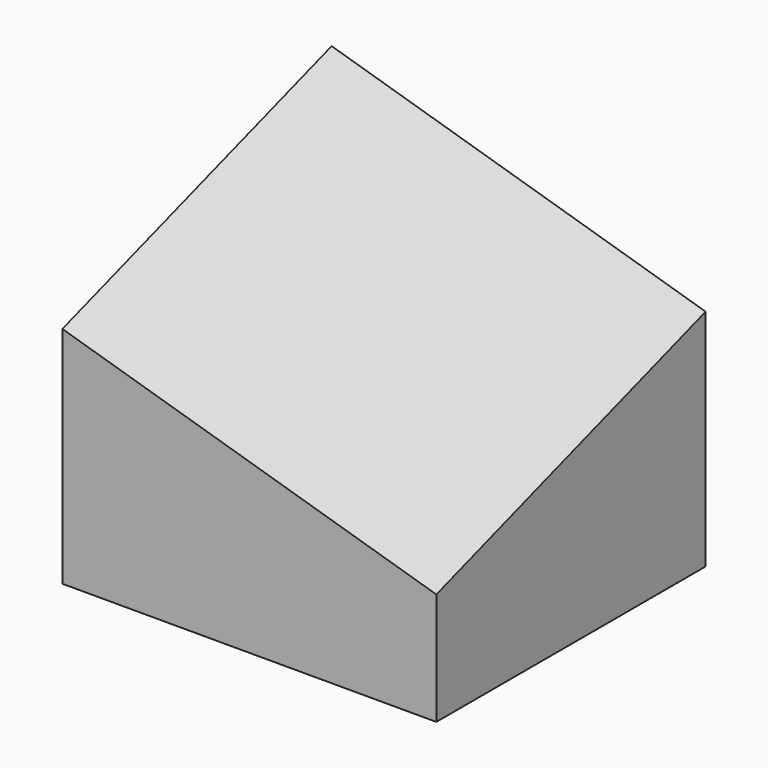
from build123d import *


with BuildPart() as f3:
    # F0 (on Right) → F3 section 0
    with BuildSketch(Plane.YZ):
        Polygon((-45, 0), (0, 0), (0, 45), (-45, 30), align=None)
    # F2 (on offset) → F3 section 1
    with BuildSketch(Plane.YZ.offset(50)):
        Polygon((-45, 0), (0, 0), (0, 30), (-45, 15), align=None)
    loft()


solid = f3.part
